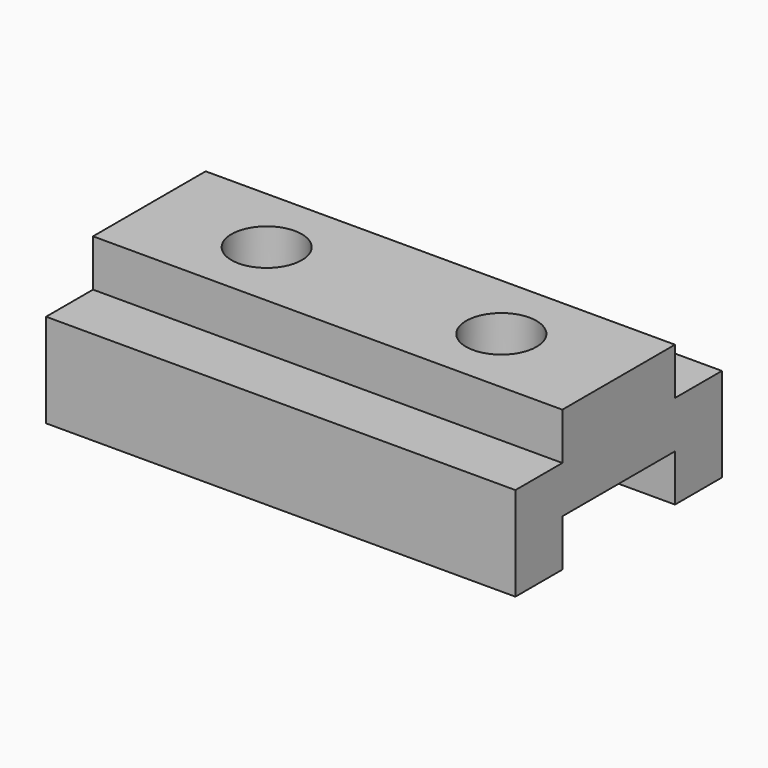
from build123d import *

# Parameters (mm, degrees)
F0_W     = 200
F0_H     = 60
F0_R     = 15
F1_DEPTH = 40
F2_W     = 200
F2_H     = 40
F3_DEPTH = 25
F4_W     = 200
F4_H     = 40
F5_DEPTH = 25


with BuildPart() as f1:
    # F0 (on Top) → F1 (new body)
    with BuildSketch(Plane.XY):
        with Locations((2.302447, -4.968402)):
            Rectangle(F0_W, F0_H)
        with Locations((-47.697553, -4.968402)):
            Circle(F0_R, mode=Mode.SUBTRACT)
        with Locations((52.302447, -4.968402)):
            Circle(F0_R, mode=Mode.SUBTRACT)
    extrude(amount=F1_DEPTH)

    # F2 (on face) → F3 (join)
    with BuildSketch(Plane.XZ.offset(34.968402)):
        with Locations((2.302447, 0)):
            Rectangle(F2_W, F2_H)
    extrude(amount=F3_DEPTH)

    # F4 (on face) → F5 (join)
    with BuildSketch(Plane(origin=(0, 25.031598, 0), x_dir=(-1, 0, 0), z_dir=(0, 1, 0))):
        with Locations((-2.302447, 0)):
            Rectangle(F4_W, F4_H)
    extrude(amount=F5_DEPTH)


solid = f1.part
